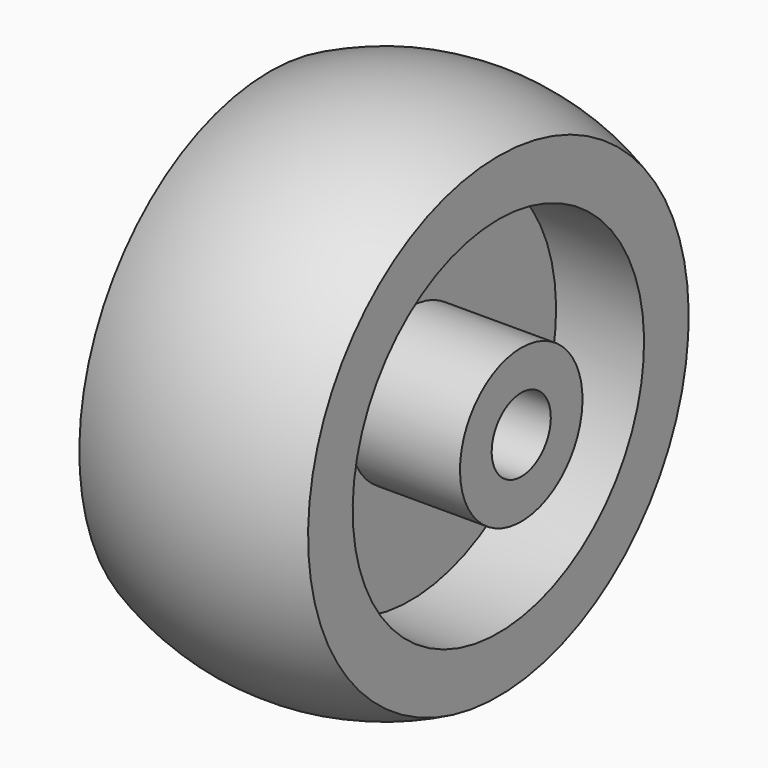
from build123d import *


with BuildPart() as part:
    # Sketch → Revolution (revolve)
    with BuildSketch(Plane.XZ):
        with BuildLine():
            Line((-7.8, 2.1), (7.8, 2.1))
            Line((7.8, 4.35), (7.8, 2.1))
            Line((1.5, 4.35), (7.8, 4.35))
            Line((1.5, 10.35), (1.5, 4.35))
            Line((6.5, 10.35), (1.5, 10.35))
            Line((6.5, 13.518506), (6.5, 10.35))
            ThreePointArc((6.5, 13.518506), (0, 15), (-6.5, 13.518506))
            Line((-6.5, 10.35), (-6.5, 13.518506))
            Line((-1.5, 10.35), (-6.5, 10.35))
            Line((-1.5, 4.35), (-1.5, 10.35))
            Line((-7.8, 4.35), (-1.5, 4.35))
            Line((-7.8, 2.1), (-7.8, 4.35))
        make_face()
    revolve(axis=Axis((0, 0, 0), (1, 0, 0)))


solid = part.part
